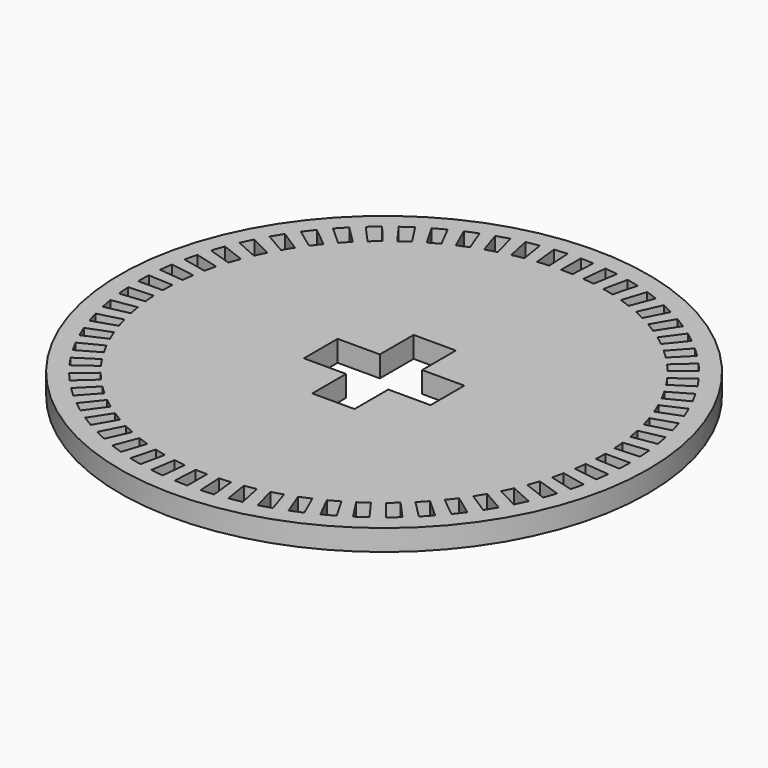
from build123d import *

# Parameters (mm, degrees)
F0_R     = 50
F1_DEPTH = 10
F2_R     = 125
F2_R_2   = 40.44952
F3_DEPTH = 10
F5_DEPTH = 25


with BuildPart() as f1:
    # F0 (on Top) → F1 (new body)
    with BuildSketch(Plane.XY):
        Circle(F0_R)
        Polygon((-10, 30), (0, 30), (10, 30), (10, 10), (30, 10), (30, 0), (30, -10), (10, -10), (10, -30), (0, -30), (-10, -30), (-10, -10), (-30, -10), (-30, 0), (-30, 10), (-10, 10), align=None, mode=Mode.SUBTRACT)
    extrude(amount=F1_DEPTH)

    # F2 (on face) → F3 (join)
    with BuildSketch(Plane.XY.offset(10)):
        Circle(F2_R)
        Circle(F2_R_2, mode=Mode.SUBTRACT)
    extrude(amount=-F3_DEPTH)

    # F4 (on face) → F5 (cut)
    with BuildSketch(Plane.XY.offset(10)):
        with BuildLine():
            Line((0, 116.456337), (0, 104.802647))
            ThreePointArc((0, 104.802647), (2.743413, 104.766734), (5.484947, 104.659019))
            Line((5.484947, 104.659019), (6.094854, 116.296738))
            ThreePointArc((6.094854, 116.296738), (3.048472, 116.416431), (0, 116.456337))
        make_face()
        with BuildLine():
            ThreePointArc((-10.95486, 104.228527), (-8.222721, 104.479576), (-5.484947, 104.659019))
            Line((-5.484947, 104.659019), (-6.094854, 116.296738))
            ThreePointArc((-6.094854, 116.296738), (-9.137059, 116.097341), (-12.173002, 115.818377))
            Line((-12.173002, 115.818377), (-10.95486, 104.228527))
        make_face()
        with BuildLine():
            ThreePointArc((-21.789696, 102.512458), (-19.098765, 103.047717), (-16.394746, 103.512353))
            Line((-16.394746, 103.512353), (-18.217785, 115.022567))
            ThreePointArc((-18.217785, 115.022567), (-21.222482, 114.506265), (-24.212634, 113.911487))
            Line((-24.212634, 113.911487), (-21.789696, 102.512458))
        make_face()
        with BuildLine():
            ThreePointArc((-32.385799, 99.673241), (-29.76556, 100.486846), (-27.124921, 101.231584))
            Line((-27.124921, 101.231584), (-30.141118, 112.488184))
            ThreePointArc((-30.141118, 112.488184), (-33.075387, 111.660634), (-35.986987, 110.756558))
            Line((-35.986987, 110.756558), (-32.385799, 99.673241))
        make_face()
        with BuildLine():
            ThreePointArc((-42.627077, 95.741982), (-40.106237, 96.825021), (-37.55791, 97.8417))
            Line((-37.55791, 97.8417), (-41.734219, 108.721357))
            ThreePointArc((-41.734219, 108.721357), (-44.565911, 107.591626), (-47.36706, 106.388158))
            Line((-47.36706, 106.388158), (-42.627077, 95.741982))
        make_face()
        with BuildLine():
            ThreePointArc((-52.401324, 90.761755), (-50.007501, 92.10236), (-47.579406, 93.379842))
            Line((-47.579406, 93.379842), (-52.870071, 103.763356))
            ThreePointArc((-52.870071, 103.763356), (-55.568162, 102.343822), (-58.228169, 100.854147))
            Line((-58.228169, 100.854147), (-52.401324, 90.761755))
        make_face()
        with BuildLine():
            ThreePointArc((-61.60145, 84.787123), (-59.360873, 86.370606), (-57.079613, 87.894896))
            Line((-57.079613, 87.894896), (-63.426667, 97.668503))
            ThreePointArc((-63.426667, 97.668503), (-65.961596, 95.974717), (-68.451318, 94.215156))
            Line((-68.451318, 94.215156), (-61.60145, 84.787123))
        make_face()
        with BuildLine():
            ThreePointArc((-70.126659, 77.883545), (-68.063875, 79.692558), (-65.954443, 81.446954))
            Line((-65.954443, 81.446954), (-73.288348, 90.503572))
            ThreePointArc((-73.288348, 90.503572), (-75.632341, 88.554094), (-77.9245, 86.543924))
            Line((-77.9245, 86.543924), (-70.126659, 77.883545))
        make_face()
        with BuildLine():
            ThreePointArc((-77.883545, 70.126659), (-76.021154, 72.141382), (-74.106663, 74.106663))
            Line((-74.106663, 74.106663), (-82.347066, 82.347066))
            ThreePointArc((-82.347066, 82.347066), (-84.474442, 80.163253), (-86.543924, 77.9245))
            Line((-86.543924, 77.9245), (-77.883545, 70.126659))
        make_face()
        with BuildLine():
            ThreePointArc((-84.787123, 61.60145), (-83.14553, 63.799809), (-81.446954, 65.954443))
            Line((-81.446954, 65.954443), (-90.503572, 73.288348))
            ThreePointArc((-90.503572, 73.288348), (-92.391024, 70.894126), (-94.215156, 68.451318))
            Line((-94.215156, 68.451318), (-84.787123, 61.60145))
        make_face()
        with BuildLine():
            ThreePointArc((-90.761755, 52.401324), (-89.358946, 54.759233), (-87.894896, 57.079613))
            Line((-87.894896, 57.079613), (-97.668503, 63.426667))
            ThreePointArc((-97.668503, 63.426667), (-99.295351, 60.848269), (-100.854147, 58.228169))
            Line((-100.854147, 58.228169), (-90.761755, 52.401324))
        make_face()
        with BuildLine():
            ThreePointArc((-95.741982, 42.627077), (-94.593327, 45.118703), (-93.379842, 47.579406))
            Line((-93.379842, 47.579406), (-103.763356, 52.870071))
            ThreePointArc((-103.763356, 52.870071), (-105.111776, 50.135745), (-106.388158, 47.36706))
            Line((-106.388158, 47.36706), (-95.741982, 42.627077))
        make_face()
        with BuildLine():
            ThreePointArc((-99.673241, 32.385799), (-98.791324, 34.983843), (-97.8417, 37.55791))
            Line((-97.8417, 37.55791), (-108.721357, 41.734219))
            ThreePointArc((-108.721357, 41.734219), (-109.776575, 38.873924), (-110.756558, 35.986987))
            Line((-110.756558, 35.986987), (-99.673241, 32.385799))
        make_face()
        with BuildLine():
            ThreePointArc((-102.512458, 21.789696), (-101.906942, 24.465692), (-101.231584, 27.124921))
            Line((-101.231584, 27.124921), (-112.488184, 30.141118))
            ThreePointArc((-112.488184, 30.141118), (-113.238639, 27.186192), (-113.911487, 24.212634))
            Line((-113.911487, 24.212634), (-102.512458, 21.789696))
        make_face()
        with BuildLine():
            ThreePointArc((-104.228527, 10.95486), (-103.906046, 13.67949), (-103.512353, 16.394746))
            Line((-103.512353, 16.394746), (-115.022567, 18.217785))
            ThreePointArc((-115.022567, 18.217785), (-115.460037, 15.200602), (-115.818377, 12.173002))
            Line((-115.818377, 12.173002), (-104.228527, 10.95486))
        make_face()
        with BuildLine():
            ThreePointArc((-104.802647, 0), (-104.766734, 2.743413), (-104.659019, 5.484947))
            Line((-104.659019, 5.484947), (-116.296738, 6.094854))
            ThreePointArc((-116.296738, 6.094854), (-116.416431, 3.048472), (-116.456337, 0))
            Line((-116.456337, 0), (-104.802647, 0))
        make_face()
        with BuildLine():
            ThreePointArc((-104.228527, -10.95486), (-104.479576, -8.222721), (-104.659019, -5.484947))
            Line((-104.659019, -5.484947), (-116.296738, -6.094854))
            ThreePointArc((-116.296738, -6.094854), (-116.097341, -9.137059), (-115.818377, -12.173002))
            Line((-115.818377, -12.173002), (-104.228527, -10.95486))
        make_face()
        with BuildLine():
            ThreePointArc((-102.512458, -21.789696), (-103.047717, -19.098765), (-103.512353, -16.394746))
            Line((-103.512353, -16.394746), (-115.022567, -18.217785))
            ThreePointArc((-115.022567, -18.217785), (-114.506265, -21.222482), (-113.911487, -24.212634))
            Line((-113.911487, -24.212634), (-102.512458, -21.789696))
        make_face()
        with BuildLine():
            ThreePointArc((-99.673241, -32.385799), (-100.486846, -29.76556), (-101.231584, -27.124921))
            Line((-101.231584, -27.124921), (-112.488184, -30.141118))
            ThreePointArc((-112.488184, -30.141118), (-111.660634, -33.075387), (-110.756558, -35.986987))
            Line((-110.756558, -35.986987), (-99.673241, -32.385799))
        make_face()
        with BuildLine():
            ThreePointArc((-95.741982, -42.627077), (-96.825021, -40.106237), (-97.8417, -37.55791))
            Line((-97.8417, -37.55791), (-108.721357, -41.734219))
            ThreePointArc((-108.721357, -41.734219), (-107.591626, -44.565911), (-106.388158, -47.36706))
            Line((-106.388158, -47.36706), (-95.741982, -42.627077))
        make_face()
        with BuildLine():
            ThreePointArc((-90.761755, -52.401324), (-92.10236, -50.007501), (-93.379842, -47.579406))
            Line((-93.379842, -47.579406), (-103.763356, -52.870071))
            ThreePointArc((-103.763356, -52.870071), (-102.343822, -55.568162), (-100.854147, -58.228169))
            Line((-100.854147, -58.228169), (-90.761755, -52.401324))
        make_face()
        with BuildLine():
            ThreePointArc((-84.787123, -61.60145), (-86.370606, -59.360873), (-87.894896, -57.079613))
            Line((-87.894896, -57.079613), (-97.668503, -63.426667))
            ThreePointArc((-97.668503, -63.426667), (-95.974717, -65.961596), (-94.215156, -68.451318))
            Line((-94.215156, -68.451318), (-84.787123, -61.60145))
        make_face()
        with BuildLine():
            ThreePointArc((-77.883545, -70.126659), (-79.692558, -68.063875), (-81.446954, -65.954443))
            Line((-81.446954, -65.954443), (-90.503572, -73.288348))
            ThreePointArc((-90.503572, -73.288348), (-88.554094, -75.632341), (-86.543924, -77.9245))
            Line((-86.543924, -77.9245), (-77.883545, -70.126659))
        make_face()
        with BuildLine():
            ThreePointArc((-70.126659, -77.883545), (-72.141382, -76.021154), (-74.106663, -74.106663))
            Line((-74.106663, -74.106663), (-82.347066, -82.347066))
            ThreePointArc((-82.347066, -82.347066), (-80.163253, -84.474442), (-77.9245, -86.543924))
            Line((-77.9245, -86.543924), (-70.126659, -77.883545))
        make_face()
        with BuildLine():
            ThreePointArc((-61.60145, -84.787123), (-63.799809, -83.14553), (-65.954443, -81.446954))
            Line((-65.954443, -81.446954), (-73.288348, -90.503572))
            ThreePointArc((-73.288348, -90.503572), (-70.894126, -92.391024), (-68.451318, -94.215156))
            Line((-68.451318, -94.215156), (-61.60145, -84.787123))
        make_face()
        with BuildLine():
            ThreePointArc((-52.401324, -90.761755), (-54.759233, -89.358946), (-57.079613, -87.894896))
            Line((-57.079613, -87.894896), (-63.426667, -97.668503))
            ThreePointArc((-63.426667, -97.668503), (-60.848269, -99.295351), (-58.228169, -100.854147))
            Line((-58.228169, -100.854147), (-52.401324, -90.761755))
        make_face()
        with BuildLine():
            ThreePointArc((-42.627077, -95.741982), (-45.118703, -94.593327), (-47.579406, -93.379842))
            Line((-47.579406, -93.379842), (-52.870071, -103.763356))
            ThreePointArc((-52.870071, -103.763356), (-50.135745, -105.111776), (-47.36706, -106.388158))
            Line((-47.36706, -106.388158), (-42.627077, -95.741982))
        make_face()
        with BuildLine():
            ThreePointArc((-32.385799, -99.673241), (-34.983843, -98.791324), (-37.55791, -97.8417))
            Line((-37.55791, -97.8417), (-41.734219, -108.721357))
            ThreePointArc((-41.734219, -108.721357), (-38.873924, -109.776575), (-35.986987, -110.756558))
            Line((-35.986987, -110.756558), (-32.385799, -99.673241))
        make_face()
        with BuildLine():
            ThreePointArc((-21.789696, -102.512458), (-24.465692, -101.906942), (-27.124921, -101.231584))
            Line((-27.124921, -101.231584), (-30.141118, -112.488184))
            ThreePointArc((-30.141118, -112.488184), (-27.186192, -113.238639), (-24.212634, -113.911487))
            Line((-24.212634, -113.911487), (-21.789696, -102.512458))
        make_face()
        with BuildLine():
            ThreePointArc((-10.95486, -104.228527), (-13.67949, -103.906046), (-16.394746, -103.512353))
            Line((-16.394746, -103.512353), (-18.217785, -115.022567))
            ThreePointArc((-18.217785, -115.022567), (-15.200602, -115.460037), (-12.173002, -115.818377))
            Line((-12.173002, -115.818377), (-10.95486, -104.228527))
        make_face()
        with BuildLine():
            ThreePointArc((0, -104.802647), (-2.743413, -104.766734), (-5.484947, -104.659019))
            Line((-5.484947, -104.659019), (-6.094854, -116.296738))
            ThreePointArc((-6.094854, -116.296738), (-3.048472, -116.416431), (0, -116.456337))
            Line((0, -116.456337), (0, -104.802647))
        make_face()
        with BuildLine():
            ThreePointArc((10.95486, -104.228527), (8.222721, -104.479576), (5.484947, -104.659019))
            Line((5.484947, -104.659019), (6.094854, -116.296738))
            ThreePointArc((6.094854, -116.296738), (9.137059, -116.097341), (12.173002, -115.818377))
            Line((12.173002, -115.818377), (10.95486, -104.228527))
        make_face()
        with BuildLine():
            ThreePointArc((21.789696, -102.512458), (19.098765, -103.047717), (16.394746, -103.512353))
            Line((16.394746, -103.512353), (18.217785, -115.022567))
            ThreePointArc((18.217785, -115.022567), (21.222482, -114.506265), (24.212634, -113.911487))
            Line((24.212634, -113.911487), (21.789696, -102.512458))
        make_face()
        with BuildLine():
            ThreePointArc((32.385799, -99.673241), (29.76556, -100.486846), (27.124921, -101.231584))
            Line((27.124921, -101.231584), (30.141118, -112.488184))
            ThreePointArc((30.141118, -112.488184), (33.075387, -111.660634), (35.986987, -110.756558))
            Line((35.986987, -110.756558), (32.385799, -99.673241))
        make_face()
        with BuildLine():
            ThreePointArc((42.627077, -95.741982), (40.106237, -96.825021), (37.55791, -97.8417))
            Line((37.55791, -97.8417), (41.734219, -108.721357))
            ThreePointArc((41.734219, -108.721357), (44.565911, -107.591626), (47.36706, -106.388158))
            Line((47.36706, -106.388158), (42.627077, -95.741982))
        make_face()
        with BuildLine():
            ThreePointArc((52.401324, -90.761755), (50.007501, -92.10236), (47.579406, -93.379842))
            Line((47.579406, -93.379842), (52.870071, -103.763356))
            ThreePointArc((52.870071, -103.763356), (55.568162, -102.343822), (58.228169, -100.854147))
            Line((58.228169, -100.854147), (52.401324, -90.761755))
        make_face()
        with BuildLine():
            ThreePointArc((61.60145, -84.787123), (59.360873, -86.370606), (57.079613, -87.894896))
            Line((57.079613, -87.894896), (63.426667, -97.668503))
            ThreePointArc((63.426667, -97.668503), (65.961596, -95.974717), (68.451318, -94.215156))
            Line((68.451318, -94.215156), (61.60145, -84.787123))
        make_face()
        with BuildLine():
            ThreePointArc((70.126659, -77.883545), (68.063875, -79.692558), (65.954443, -81.446954))
            Line((65.954443, -81.446954), (73.288348, -90.503572))
            ThreePointArc((73.288348, -90.503572), (75.632341, -88.554094), (77.9245, -86.543924))
            Line((77.9245, -86.543924), (70.126659, -77.883545))
        make_face()
        with BuildLine():
            ThreePointArc((77.883545, -70.126659), (76.021154, -72.141382), (74.106663, -74.106663))
            Line((74.106663, -74.106663), (82.347066, -82.347066))
            ThreePointArc((82.347066, -82.347066), (84.474442, -80.163253), (86.543924, -77.9245))
            Line((86.543924, -77.9245), (77.883545, -70.126659))
        make_face()
        with BuildLine():
            ThreePointArc((84.787123, -61.60145), (83.14553, -63.799809), (81.446954, -65.954443))
            Line((81.446954, -65.954443), (90.503572, -73.288348))
            ThreePointArc((90.503572, -73.288348), (92.391024, -70.894126), (94.215156, -68.451318))
            Line((94.215156, -68.451318), (84.787123, -61.60145))
        make_face()
        with BuildLine():
            ThreePointArc((90.761755, -52.401324), (89.358946, -54.759233), (87.894896, -57.079613))
            Line((87.894896, -57.079613), (97.668503, -63.426667))
            ThreePointArc((97.668503, -63.426667), (99.295351, -60.848269), (100.854147, -58.228169))
            Line((100.854147, -58.228169), (90.761755, -52.401324))
        make_face()
        with BuildLine():
            ThreePointArc((95.741982, -42.627077), (94.593327, -45.118703), (93.379842, -47.579406))
            Line((93.379842, -47.579406), (103.763356, -52.870071))
            ThreePointArc((103.763356, -52.870071), (105.111776, -50.135745), (106.388158, -47.36706))
            Line((106.388158, -47.36706), (95.741982, -42.627077))
        make_face()
        with BuildLine():
            ThreePointArc((99.673241, -32.385799), (98.791324, -34.983843), (97.8417, -37.55791))
            Line((97.8417, -37.55791), (108.721357, -41.734219))
            ThreePointArc((108.721357, -41.734219), (109.776575, -38.873924), (110.756558, -35.986987))
            Line((110.756558, -35.986987), (99.673241, -32.385799))
        make_face()
        with BuildLine():
            ThreePointArc((102.512458, -21.789696), (101.906942, -24.465692), (101.231584, -27.124921))
            Line((101.231584, -27.124921), (112.488184, -30.141118))
            ThreePointArc((112.488184, -30.141118), (113.238639, -27.186192), (113.911487, -24.212634))
            Line((113.911487, -24.212634), (102.512458, -21.789696))
        make_face()
        with BuildLine():
            ThreePointArc((104.228527, -10.95486), (103.906046, -13.67949), (103.512353, -16.394746))
            Line((103.512353, -16.394746), (115.022567, -18.217785))
            ThreePointArc((115.022567, -18.217785), (115.460037, -15.200602), (115.818377, -12.173002))
            Line((115.818377, -12.173002), (104.228527, -10.95486))
        make_face()
        with BuildLine():
            ThreePointArc((104.802647, 0), (104.766734, -2.743413), (104.659019, -5.484947))
            Line((104.659019, -5.484947), (116.296738, -6.094854))
            ThreePointArc((116.296738, -6.094854), (116.416431, -3.048472), (116.456337, 0))
            Line((116.456337, 0), (104.802647, 0))
        make_face()
        with BuildLine():
            ThreePointArc((104.228527, 10.95486), (104.479576, 8.222721), (104.659019, 5.484947))
            Line((104.659019, 5.484947), (116.296738, 6.094854))
            ThreePointArc((116.296738, 6.094854), (116.097341, 9.137059), (115.818377, 12.173002))
            Line((115.818377, 12.173002), (104.228527, 10.95486))
        make_face()
        with BuildLine():
            ThreePointArc((102.512458, 21.789696), (103.047717, 19.098765), (103.512353, 16.394746))
            Line((103.512353, 16.394746), (115.022567, 18.217785))
            ThreePointArc((115.022567, 18.217785), (114.506265, 21.222482), (113.911487, 24.212634))
            Line((113.911487, 24.212634), (102.512458, 21.789696))
        make_face()
        with BuildLine():
            ThreePointArc((99.673241, 32.385799), (100.486846, 29.76556), (101.231584, 27.124921))
            Line((101.231584, 27.124921), (112.488184, 30.141118))
            ThreePointArc((112.488184, 30.141118), (111.660634, 33.075387), (110.756558, 35.986987))
            Line((110.756558, 35.986987), (99.673241, 32.385799))
        make_face()
        with BuildLine():
            ThreePointArc((95.741982, 42.627077), (96.825021, 40.106237), (97.8417, 37.55791))
            Line((97.8417, 37.55791), (108.721357, 41.734219))
            ThreePointArc((108.721357, 41.734219), (107.591626, 44.565911), (106.388158, 47.36706))
            Line((106.388158, 47.36706), (95.741982, 42.627077))
        make_face()
        with BuildLine():
            ThreePointArc((90.761755, 52.401324), (92.10236, 50.007501), (93.379842, 47.579406))
            Line((93.379842, 47.579406), (103.763356, 52.870071))
            ThreePointArc((103.763356, 52.870071), (102.343822, 55.568162), (100.854147, 58.228169))
            Line((100.854147, 58.228169), (90.761755, 52.401324))
        make_face()
        with BuildLine():
            ThreePointArc((84.787123, 61.60145), (86.370606, 59.360873), (87.894896, 57.079613))
            Line((87.894896, 57.079613), (97.668503, 63.426667))
            ThreePointArc((97.668503, 63.426667), (95.974717, 65.961596), (94.215156, 68.451318))
            Line((94.215156, 68.451318), (84.787123, 61.60145))
        make_face()
        with BuildLine():
            ThreePointArc((77.883545, 70.126659), (79.692558, 68.063875), (81.446954, 65.954443))
            Line((81.446954, 65.954443), (90.503572, 73.288348))
            ThreePointArc((90.503572, 73.288348), (88.554094, 75.632341), (86.543924, 77.9245))
            Line((86.543924, 77.9245), (77.883545, 70.126659))
        make_face()
        with BuildLine():
            ThreePointArc((70.126659, 77.883545), (72.141382, 76.021154), (74.106663, 74.106663))
            Line((74.106663, 74.106663), (82.347066, 82.347066))
            ThreePointArc((82.347066, 82.347066), (80.163253, 84.474442), (77.9245, 86.543924))
            Line((77.9245, 86.543924), (70.126659, 77.883545))
        make_face()
        with BuildLine():
            ThreePointArc((61.60145, 84.787123), (63.799809, 83.14553), (65.954443, 81.446954))
            Line((65.954443, 81.446954), (73.288348, 90.503572))
            ThreePointArc((73.288348, 90.503572), (70.894126, 92.391024), (68.451318, 94.215156))
            Line((68.451318, 94.215156), (61.60145, 84.787123))
        make_face()
        with BuildLine():
            ThreePointArc((52.401324, 90.761755), (54.759233, 89.358946), (57.079613, 87.894896))
            Line((57.079613, 87.894896), (63.426667, 97.668503))
            ThreePointArc((63.426667, 97.668503), (60.848269, 99.295351), (58.228169, 100.854147))
            Line((58.228169, 100.854147), (52.401324, 90.761755))
        make_face()
        with BuildLine():
            ThreePointArc((42.627077, 95.741982), (45.118703, 94.593327), (47.579406, 93.379842))
            Line((47.579406, 93.379842), (52.870071, 103.763356))
            ThreePointArc((52.870071, 103.763356), (50.135745, 105.111776), (47.36706, 106.388158))
            Line((47.36706, 106.388158), (42.627077, 95.741982))
        make_face()
        with BuildLine():
            ThreePointArc((32.385799, 99.673241), (34.983843, 98.791324), (37.55791, 97.8417))
            Line((37.55791, 97.8417), (41.734219, 108.721357))
            ThreePointArc((41.734219, 108.721357), (38.873924, 109.776575), (35.986987, 110.756558))
            Line((35.986987, 110.756558), (32.385799, 99.673241))
        make_face()
        with BuildLine():
            ThreePointArc((21.789696, 102.512458), (24.465692, 101.906942), (27.124921, 101.231584))
            Line((27.124921, 101.231584), (30.141118, 112.488184))
            ThreePointArc((30.141118, 112.488184), (27.186192, 113.238639), (24.212634, 113.911487))
            Line((24.212634, 113.911487), (21.789696, 102.512458))
        make_face()
        with BuildLine():
            ThreePointArc((10.95486, 104.228527), (13.67949, 103.906046), (16.394746, 103.512353))
            Line((16.394746, 103.512353), (18.217785, 115.022567))
            ThreePointArc((18.217785, 115.022567), (15.200602, 115.460037), (12.173002, 115.818377))
            Line((12.173002, 115.818377), (10.95486, 104.228527))
        make_face()
    extrude(amount=-F5_DEPTH, mode=Mode.SUBTRACT)


solid = f1.part
